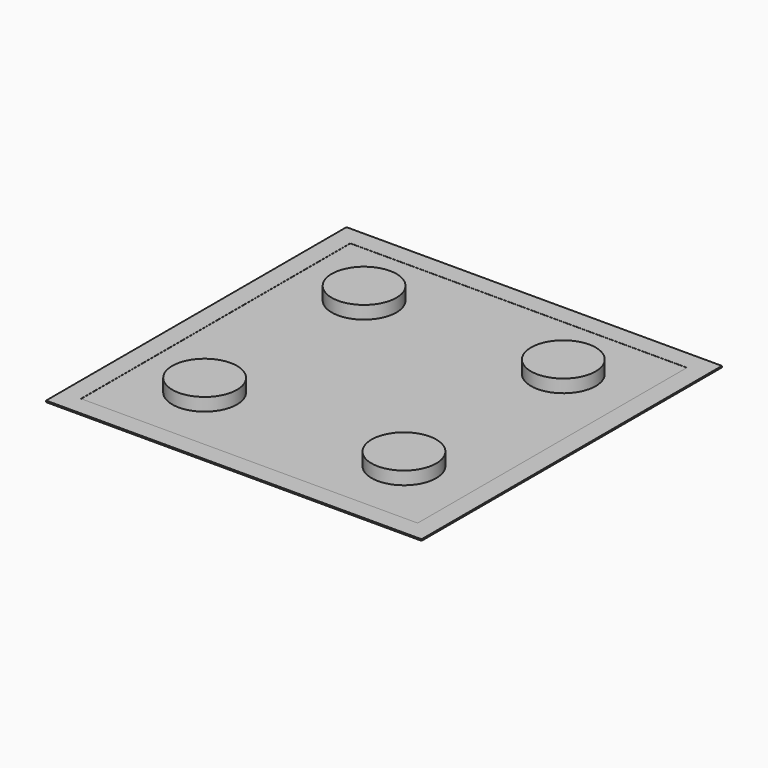
from build123d import *

# Parameters (mm, degrees)
F0_W     = 73.66
F0_H     = 73.66
F1_DEPTH = 0.254
F2_W     = 73.66
F2_H     = 73.66
F2_W_2   = 66.04
F2_H_2   = 66.04
F3_DEPTH = 0.0254
F4_R     = 6.35
F5_DEPTH = 2.54


with BuildPart() as f1:
    # F0 (on Top) → F1 (new body)
    with BuildSketch(Plane.XY):
        with Locations((36.83, 36.83)):
            Rectangle(F0_W, F0_H)
    extrude(amount=F1_DEPTH)

    # F2 (on face) → F3 (join)
    with BuildSketch(Plane.XY.offset(0.254)):
        with Locations((36.83, 36.83)):
            Rectangle(F2_W, F2_H)
        with Locations((36.83, 36.83)):
            Rectangle(F2_W_2, F2_H_2, mode=Mode.SUBTRACT)
    extrude(amount=F3_DEPTH)

    # F4 (on face) → F5 (join)
    with BuildSketch(Plane.XY.offset(0.254)):
        with Locations((17.280384, 56.379616)):
            Circle(F4_R)
        with Locations((17.280384, 17.280384)):
            Circle(F4_R)
        with Locations((56.379616, 17.280384)):
            Circle(F4_R)
        with Locations((56.379616, 56.379616)):
            Circle(F4_R)
    extrude(amount=F5_DEPTH)


solid = f1.part
